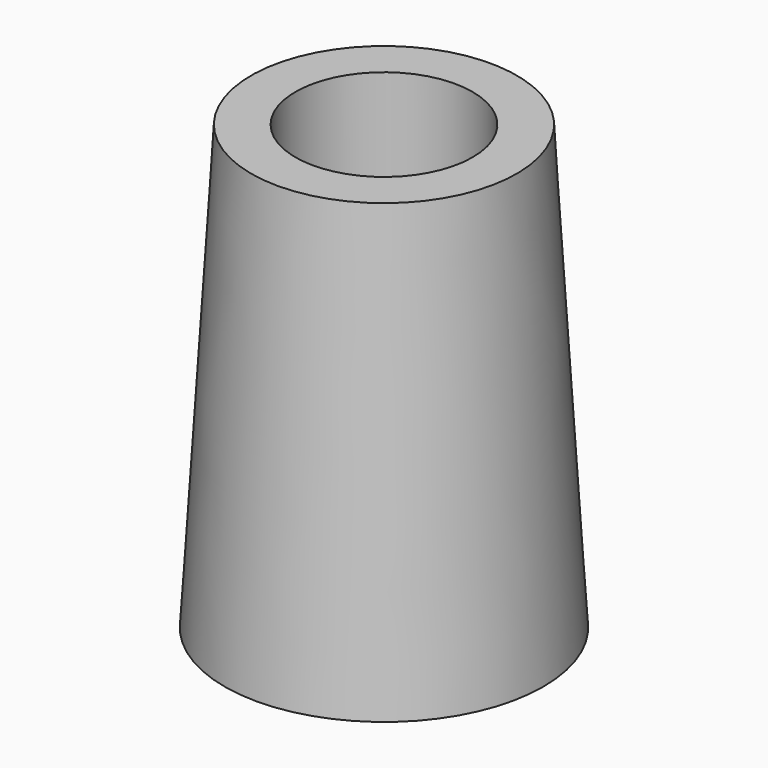
from build123d import *

# Parameters (mm, degrees)
F2_R     = 7.5
F2_R_2   = 5
F3_DEPTH = 25


with BuildPart() as f3:
    # F2 (on offset) → F3 (new body)
    with BuildSketch(Plane.XY.offset(25)):
        Circle(F2_R)
        Circle(F2_R_2, mode=Mode.SUBTRACT)
    extrude(amount=-F3_DEPTH)

    # F4 (on Right) → F5 (revolve)
    with BuildSketch(Plane.YZ):
        Polygon((-7.5, 25), (-9, 0), (-7.5, 0), align=None)
    revolve(axis=Axis((0, 0, 0), (0, 0, 1)))


solid = f3.part
